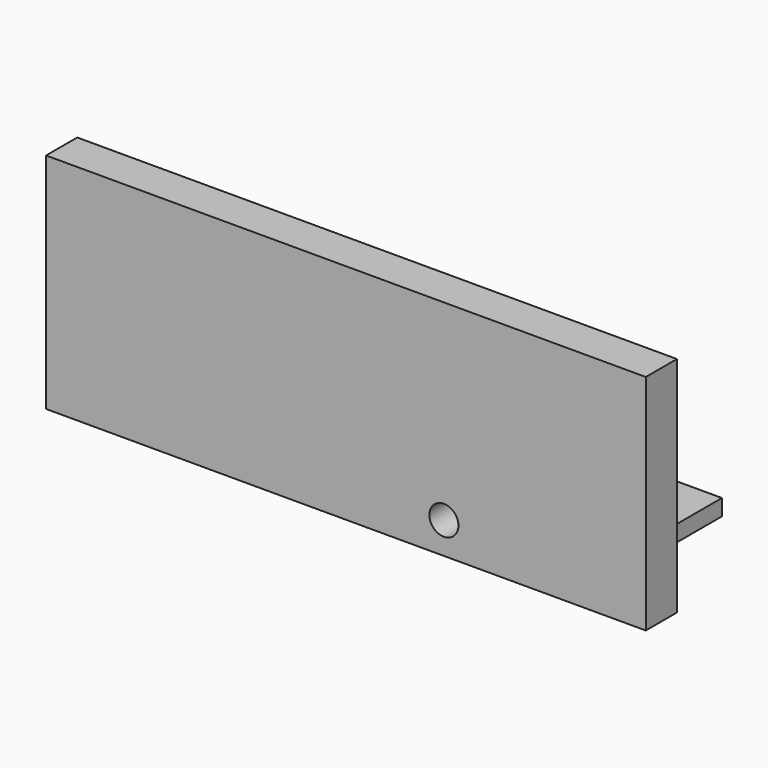
from build123d import *

# Parameters (mm, degrees)
F1_DEPTH = 5
F2_W     = 184.894443
F2_H     = 68.811441
F2_R     = 4.478614
F3_DEPTH = 12


with BuildPart() as f1:
    # F0 (on Top) → F1 (new body)
    with BuildSketch(Plane.XY):
        Polygon((0, 35.732411), (0, 0), (7.744245, 0), (7.744245, 4.952234), (3.837245, 4.952234), (3.837245, 12.13715), (7.744245, 12.13715), (7.744245, 16.66962), (14.426086, 16.66962), (14.426086, 12.13715), (17.454734, 12.13715), (17.454734, 4.952234), (14.426086, 4.952234), (14.426086, 0), (58.655955, 0), (58.655955, 35.732411), align=None)
    extrude(amount=F1_DEPTH)

    # F2 (on Front) → F3 (join)
    with BuildSketch(Plane.XZ):
        with Locations((-19.075736, 27.622866)):
            Rectangle(F2_W, F2_H)
        with Locations((11.128073, 2.898691)):
            Circle(F2_R, mode=Mode.SUBTRACT)
    extrude(amount=F3_DEPTH)


solid = f1.part
